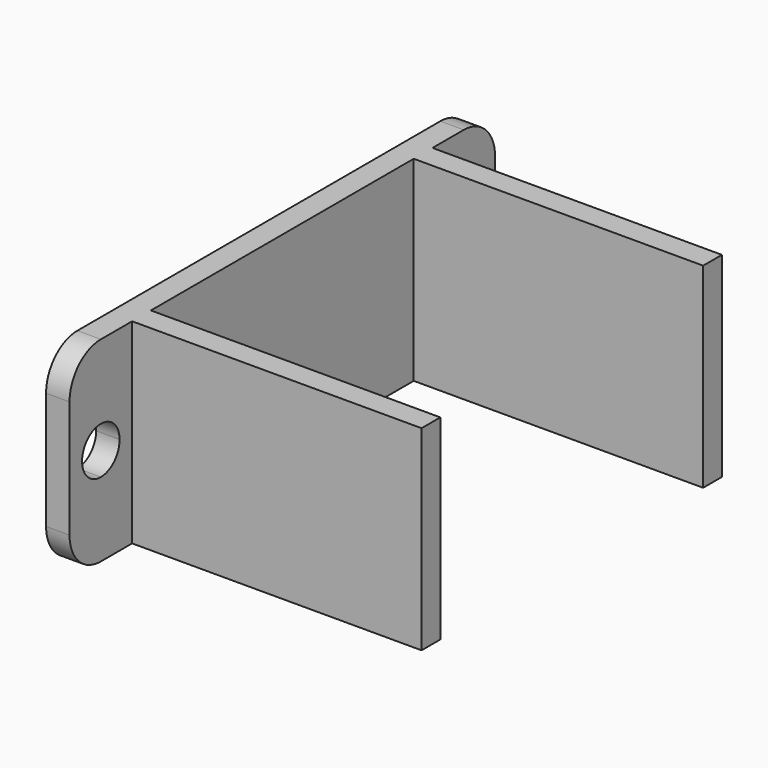
from build123d import *

# Parameters (mm, degrees)
F0_W      = 40
F0_H      = 48
F1_DEPTH  = 25
F3_W      = 42
F3_H      = 25
F4_DEPTH  = 37
F2_W      = 3
F2_H      = 25
F5_DEPTH  = 10
F6_W      = 3
F6_H      = 25
F7_DEPTH  = 10
F8_R      = 5
F11_DEPTH = 25


with BuildPart() as f1:
    # F0 (on Top) → F1 (new body)
    with BuildSketch(Plane.XY):
        Rectangle(F0_W, F0_H)
    extrude(amount=F1_DEPTH)

    # F3 (on face) → F4 (cut)
    with BuildSketch(Plane.YZ.offset(20)):
        with Locations((0, 12.5)):
            Rectangle(F3_W, F3_H)
    extrude(amount=-F4_DEPTH, mode=Mode.SUBTRACT)

    # F2 (on face) → F5 (join)
    with BuildSketch(Plane.XZ.offset(24)):
        with Locations((-18.5, 12.5)):
            Rectangle(F2_W, F2_H)
    extrude(amount=F5_DEPTH)

    # F6 (on face) → F7 (join)
    with BuildSketch(Plane(origin=(0, 24, 0), x_dir=(-1, 0, 0), z_dir=(0, 1, 0))):
        with Locations((18.5, 12.5)):
            Rectangle(F6_W, F6_H)
    extrude(amount=F7_DEPTH)

    # F8
    f8_edges = [f1.edges().sort_by_distance(p)[0] for p in [
        (-18.5, 34, 0),
        (-18.5, 34, 25),
        (-18.5, -34, 0),
        (-18.5, -34, 25),
    ]]
    fillet(f8_edges, radius=F8_R)

    # F10 (on face) + F9 (on face) → F11 (cut)
    with BuildSketch(Plane.YZ.offset(-17)):
        with BuildLine():
            ThreePointArc((29, 15.5), (26, 12.5), (29, 9.5))
            Line((29, 9.5), (29, 15.5))
        make_face()
        with BuildLine():
            Line((29, 15.5), (29, 9.5))
            ThreePointArc((29, 9.5), (31.1213203436, 10.3786796564), (32, 12.5))
            ThreePointArc((32, 12.5), (31.1213203436, 14.6213203436), (29, 15.5))
        make_face()
    with BuildSketch(Plane.YZ.offset(-17)):
        with BuildLine():
            ThreePointArc((-29, 15.5), (-32, 12.5), (-29, 9.5))
            Line((-29, 9.5), (-29, 15.5))
        make_face()
        with BuildLine():
            Line((-29, 15.5), (-29, 9.5))
            ThreePointArc((-29, 9.5), (-26.8786796564, 10.3786796564), (-26, 12.5))
            ThreePointArc((-26, 12.5), (-26.8786796564, 14.6213203436), (-29, 15.5))
        make_face()
    extrude(amount=-F11_DEPTH, mode=Mode.SUBTRACT)


solid = f1.part
